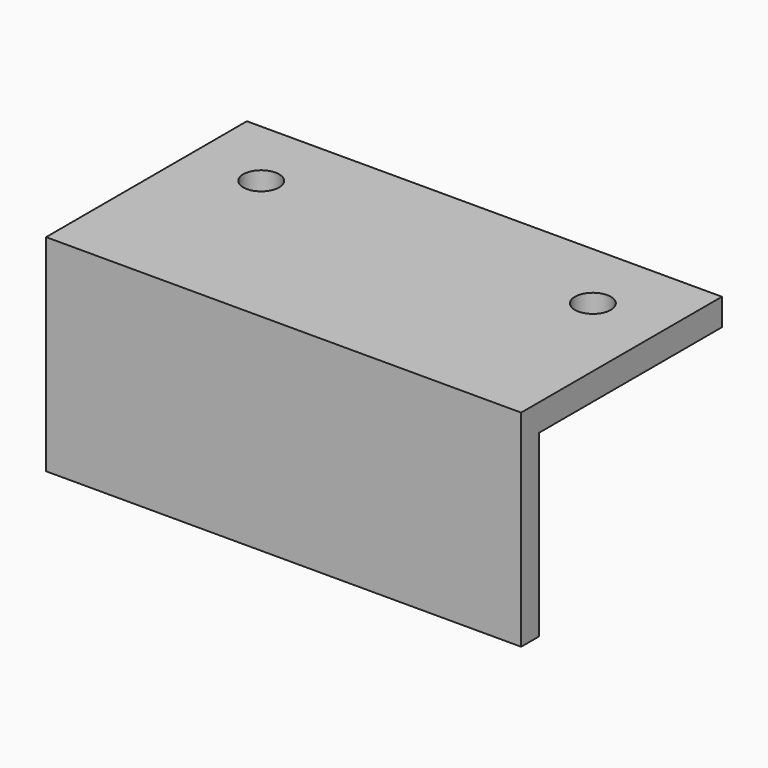
from build123d import *

# Parameters (mm, degrees)
SKETCH002_W     = 53
SKETCH002_H     = 28
PAD_DEPTH       = 3
SKETCH_R        = 2
POCKET_DEPTH    = 5
SKETCH001_R     = 2
POCKET001_DEPTH = 5
SKETCH003_W     = 53
SKETCH003_H     = 2.5
PAD001_DEPTH    = 20


with BuildPart() as part:
    # Sketch002 → Pad (new body)
    with BuildSketch(Plane.XY):
        with Locations((18.5, -6)):
            Rectangle(SKETCH002_W, SKETCH002_H)
    extrude(amount=PAD_DEPTH)

    # Sketch → Pocket (cut)
    with BuildSketch(Plane.XY):
        Circle(SKETCH_R)
    extrude(amount=POCKET_DEPTH, mode=Mode.SUBTRACT)

    # Sketch001 → Pocket001 (cut)
    with BuildSketch(Plane.XY):
        with Locations((37, 0)):
            Circle(SKETCH001_R)
    extrude(amount=POCKET001_DEPTH, mode=Mode.SUBTRACT)

    # Sketch003 → Pad001 (join)
    with BuildSketch(Plane.XY):
        with Locations((18.5, -18.75)):
            Rectangle(SKETCH003_W, SKETCH003_H)
    extrude(amount=-PAD001_DEPTH)


solid = part.part
